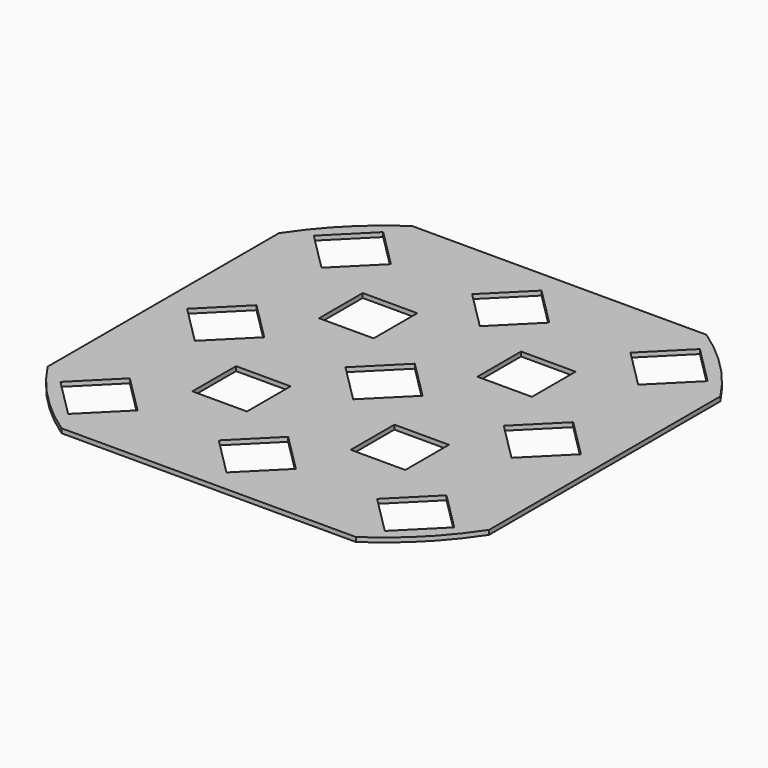
from build123d import *

# Parameters (mm, degrees)
F0_W     = 31
F0_H     = 31
F1_DEPTH = 2.5


with BuildPart() as f1:
    # F0 (on Top) → F1 (new body)
    with BuildSketch(Plane.XY):
        with BuildLine():
            Line((173.664509, 193.083896), (6.335491, 193.083896))
            ThreePointArc((6.335491, 193.083896), (-16.703717, 174.008356), (-35.5, 150.740758))
            Line((-35.5, 150.740758), (-35.5, -13.572966))
            ThreePointArc((-35.5, -13.572966), (-16.703717, -36.840564), (6.335491, -55.916104))
            Line((6.335491, -55.916104), (173.664509, -55.916104))
            ThreePointArc((173.664509, -55.916104), (196.703717, -36.840564), (215.5, -13.572966))
            Line((215.5, -13.572966), (215.5, 150.740758))
            ThreePointArc((215.5, 150.740758), (196.703717, 174.008356), (173.664509, 193.083896))
        make_face()
        Polygon((0, -43.336414), (-21.92031, -21.416104), (0, 0.504206), (21.92031, -21.416104), align=None, mode=Mode.SUBTRACT)
        with Locations((45, 23.583896)):
            Rectangle(F0_W, F0_H, mode=Mode.SUBTRACT)
        Polygon((68.07969, -21.416104), (90, 0.504206), (111.92031, -21.416104), (90, -43.336414), align=None, mode=Mode.SUBTRACT)
        Polygon((180, -43.336414), (158.07969, -21.416104), (180, 0.504206), (201.92031, -21.416104), align=None, mode=Mode.SUBTRACT)
        with Locations((135, 23.583896)):
            Rectangle(F0_W, F0_H, mode=Mode.SUBTRACT)
        Polygon((0, 46.663586), (-21.92031, 68.583896), (0, 90.504206), (21.92031, 68.583896), align=None, mode=Mode.SUBTRACT)
        with Locations((45, 113.583896)):
            Rectangle(F0_W, F0_H, mode=Mode.SUBTRACT)
        Polygon((0, 136.663586), (-21.92031, 158.583896), (0, 180.504206), (21.92031, 158.583896), align=None, mode=Mode.SUBTRACT)
        Polygon((90, 136.663586), (68.07969, 158.583896), (90, 180.504206), (111.92031, 158.583896), align=None, mode=Mode.SUBTRACT)
        Polygon((90, 46.663586), (68.07969, 68.583896), (90, 90.504206), (111.92031, 68.583896), align=None, mode=Mode.SUBTRACT)
        with Locations((135, 113.583896)):
            Rectangle(F0_W, F0_H, mode=Mode.SUBTRACT)
        Polygon((180, 46.663586), (158.07969, 68.583896), (180, 90.504206), (201.92031, 68.583896), align=None, mode=Mode.SUBTRACT)
        Polygon((180, 136.663586), (158.07969, 158.583896), (180, 180.504206), (201.92031, 158.583896), align=None, mode=Mode.SUBTRACT)
    extrude(amount=F1_DEPTH)


solid = f1.part
